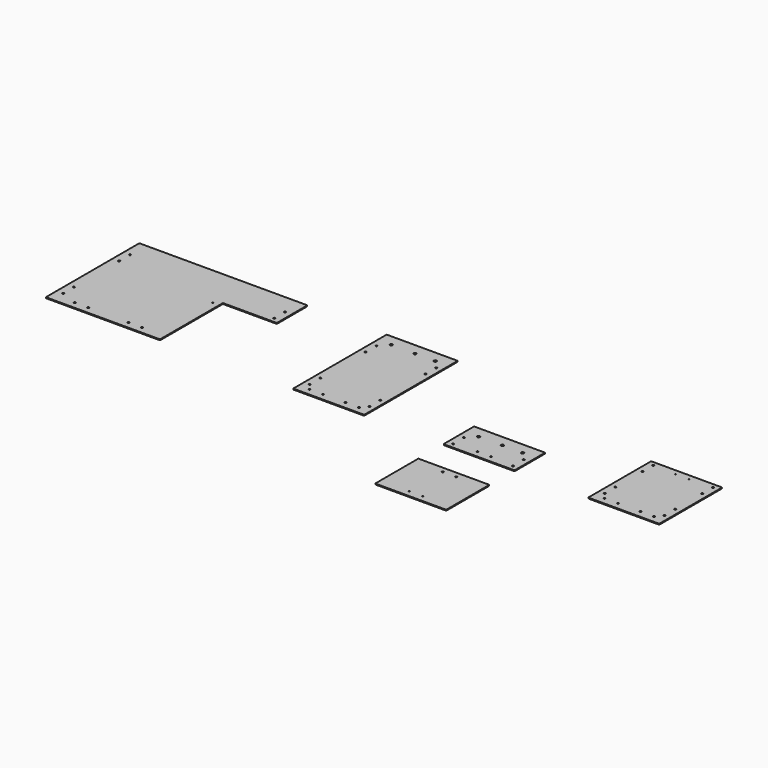
from build123d import *

# Parameters (mm, degrees)
F0_W     = 374
F0_H     = 260
F0_R     = 2
F0_R_2   = 1.1422954985
F1_DEPTH = 2
F0_W_2   = 158
F0_R_3   = 3
F0_H_2   = 85
F0_H_3   = 175
F0_R_4   = 1.2
F0_H_4   = 120
F2_W     = 120
F2_H     = 175
F2_R     = 2
F3_DEPTH = 25
F4_R     = 1
F4_2_R   = 1
F4_3_R   = 1
F4_4_R   = 1
F4_5_R   = 1


with BuildPart() as f1:
    # F0 (on Top) → F1 (new body)
    with BuildSketch(Plane.XY):
        with Locations((187, 130)):
            Rectangle(F0_W, F0_H)
        with Locations((14.5, 30)):
            Circle(F0_R, mode=Mode.SUBTRACT)
        with Locations((14.5, 60)):
            Circle(F0_R, mode=Mode.SUBTRACT)
        with Locations((14.5, 186)):
            Circle(F0_R, mode=Mode.SUBTRACT)
        with Locations((239.4904643297, 164.9819016457)):
            Circle(F0_R_2, mode=Mode.SUBTRACT)
        with Locations((14.5, 216)):
            Circle(F0_R, mode=Mode.SUBTRACT)
        with Locations((359.5, 186)):
            Circle(F0_R, mode=Mode.SUBTRACT)
        with Locations((359.5, 216)):
            Circle(F0_R, mode=Mode.SUBTRACT)
    extrude(amount=F1_DEPTH)

    # F2 (on face) → F3 (cut)
    with BuildSketch(Plane.XY.offset(2)):
        with Locations((314, 87.5)):
            Rectangle(F2_W, F2_H)
        with Locations((52, 15.5)):
            Circle(F2_R)
        with Locations((82, 15.5)):
            Circle(F2_R)
        with Locations((172, 15.5)):
            Circle(F2_R)
        with Locations((202, 15.5)):
            Circle(F2_R)
    extrude(amount=-F3_DEPTH, mode=Mode.SUBTRACT)

    # F4#2
    f4_2_edges = [f1.edges().sort_by_distance(p)[0] for p in [
        (0, 260, 1),
        (0, 0, 1),
        (254, 0, 1),
        (254, 175, 1),
        (374, 175, 1),
        (374, 260, 1),
    ]]
    fillet(f4_2_edges, radius=F4_2_R)


with BuildPart() as f1b:
    # F0 (on Top) → F1, piece 2 (new body)
    with BuildSketch(Plane.XY):
        with Locations((629.4508275986, 130)):
            Rectangle(F0_W_2, F0_H)
        with Locations((574.4508275986, 15.5)):
            Circle(F0_R, mode=Mode.SUBTRACT)
        with Locations((562.9508275986, 30)):
            Circle(F0_R, mode=Mode.SUBTRACT)
        with Locations((604.4508275986, 15.5)):
            Circle(F0_R, mode=Mode.SUBTRACT)
        with Locations((654.4508275986, 15.5)):
            Circle(F0_R, mode=Mode.SUBTRACT)
        with Locations((684.4508275986, 15.5)):
            Circle(F0_R, mode=Mode.SUBTRACT)
        with Locations((695.9508275986, 30)):
            Circle(F0_R, mode=Mode.SUBTRACT)
        with Locations((562.9508275986, 60)):
            Circle(F0_R, mode=Mode.SUBTRACT)
        with Locations((562.9508275986, 186)):
            Circle(F0_R, mode=Mode.SUBTRACT)
        with Locations((562.9508275986, 216)):
            Circle(F0_R, mode=Mode.SUBTRACT)
        with Locations((580.4508275986, 235)):
            Circle(F0_R_3, mode=Mode.SUBTRACT)
        with Locations((633.4508275986, 235)):
            Circle(F0_R_3, mode=Mode.SUBTRACT)
        with Locations((678.4508275986, 235)):
            Circle(F0_R_3, mode=Mode.SUBTRACT)
        with Locations((695.9508275986, 60)):
            Circle(F0_R, mode=Mode.SUBTRACT)
        with Locations((695.9508275986, 186)):
            Circle(F0_R, mode=Mode.SUBTRACT)
        with Locations((695.9508275986, 216)):
            Circle(F0_R, mode=Mode.SUBTRACT)
    extrude(amount=F1_DEPTH)

    # F4#3
    f4_3_edges = [f1b.edges().sort_by_distance(p)[0] for p in [
        (550.450828, 260, 1),
        (708.450828, 260, 1),
        (708.450828, 0, 1),
        (550.450828, 0, 1),
    ]]
    fillet(f4_3_edges, radius=F4_3_R)


with BuildPart() as f1c:
    # F0 (on Top) → F1, piece 3 (new body)
    with BuildSketch(Plane.XY):
        with Locations((963.9665292694, 42.5)):
            Rectangle(F0_W_2, F0_H_2)
        with Locations((897.4665292694, 11)):
            Circle(F0_R, mode=Mode.SUBTRACT)
        with Locations((948.9665292694, 14.5)):
            Circle(F0_R, mode=Mode.SUBTRACT)
        with Locations((978.9665292694, 14.5)):
            Circle(F0_R, mode=Mode.SUBTRACT)
        with Locations((1030.4665292694, 11)):
            Circle(F0_R, mode=Mode.SUBTRACT)
        with Locations((897.4665292694, 41)):
            Circle(F0_R, mode=Mode.SUBTRACT)
        with Locations((914.9665292694, 60)):
            Circle(F0_R_3, mode=Mode.SUBTRACT)
        with Locations((967.9665292694, 60)):
            Circle(F0_R_3, mode=Mode.SUBTRACT)
        with Locations((1012.9665292694, 60)):
            Circle(F0_R_3, mode=Mode.SUBTRACT)
        with Locations((1030.4665292694, 41)):
            Circle(F0_R, mode=Mode.SUBTRACT)
    extrude(amount=F1_DEPTH)

    # F4
    f4_edges = [f1c.edges().sort_by_distance(p)[0] for p in [
        (1042.966529, 85, 1),
        (1042.966529, 0, 1),
        (884.966529, 0, 1),
        (884.966529, 85, 1),
    ]]
    fillet(f4_edges, radius=F4_R)


with BuildPart() as f1d:
    # F0 (on Top) → F1, piece 4 (new body)
    with BuildSketch(Plane.XY):
        with Locations((1285.9957513809, 87.5)):
            Rectangle(F0_W_2, F0_H_3)
        with Locations((1230.9957513809, 15.5)):
            Circle(F0_R, mode=Mode.SUBTRACT)
        with Locations((1260.9957513809, 15.5)):
            Circle(F0_R, mode=Mode.SUBTRACT)
        with Locations((1219.4957513809, 30)):
            Circle(F0_R, mode=Mode.SUBTRACT)
        with Locations((1310.9957513809, 15.5)):
            Circle(F0_R, mode=Mode.SUBTRACT)
        with Locations((1340.9957513809, 15.5)):
            Circle(F0_R, mode=Mode.SUBTRACT)
        with Locations((1352.4957513809, 30)):
            Circle(F0_R, mode=Mode.SUBTRACT)
        with Locations((1219.4957513809, 60)):
            Circle(F0_R, mode=Mode.SUBTRACT)
        with Locations((1352.4957513809, 60)):
            Circle(F0_R, mode=Mode.SUBTRACT)
        with Locations((1219.4957513809, 135)):
            Circle(F0_R, mode=Mode.SUBTRACT)
        with Locations((1352.4957513809, 135)):
            Circle(F0_R, mode=Mode.SUBTRACT)
        with Locations((1219.4957513809, 165)):
            Circle(F0_R, mode=Mode.SUBTRACT)
        with Locations((1270.9957513809, 162.5)):
            Circle(F0_R_4, mode=Mode.SUBTRACT)
        with Locations((1300.9957513809, 162.5)):
            Circle(F0_R_4, mode=Mode.SUBTRACT)
        with Locations((1352.4957513809, 165)):
            Circle(F0_R, mode=Mode.SUBTRACT)
    extrude(amount=F1_DEPTH)

    # F4#5
    f4_5_edges = [f1d.edges().sort_by_distance(p)[0] for p in [
        (1206.995751, 175, 1),
        (1206.995751, 0, 1),
        (1364.995751, 175, 1),
        (1364.995751, 0, 1),
    ]]
    fillet(f4_5_edges, radius=F4_5_R)


with BuildPart() as f1e:
    # F0 (on Top) → F1, piece 5 (new body)
    with BuildSketch(Plane.XY):
        with Locations((963.9665292694, -130)):
            Rectangle(F0_W_2, F0_H_4)
        with Locations((948.9665292694, -175.5)):
            Circle(F0_R_4, mode=Mode.SUBTRACT)
        with Locations((978.9665292694, -175.5)):
            Circle(F0_R_4, mode=Mode.SUBTRACT)
        with Locations((948.9665292694, -82.5)):
            Circle(F0_R, mode=Mode.SUBTRACT)
        with Locations((978.9665292694, -82.5)):
            Circle(F0_R, mode=Mode.SUBTRACT)
    extrude(amount=F1_DEPTH)

    # F4#4
    f4_4_edges = [f1e.edges().sort_by_distance(p)[0] for p in [
        (884.966529, -70, 1),
        (884.966529, -190, 1),
        (1042.966529, -70, 1),
        (1042.966529, -190, 1),
    ]]
    fillet(f4_4_edges, radius=F4_4_R)


solid = Compound([f1.part, f1b.part, f1c.part, f1d.part, f1e.part])
